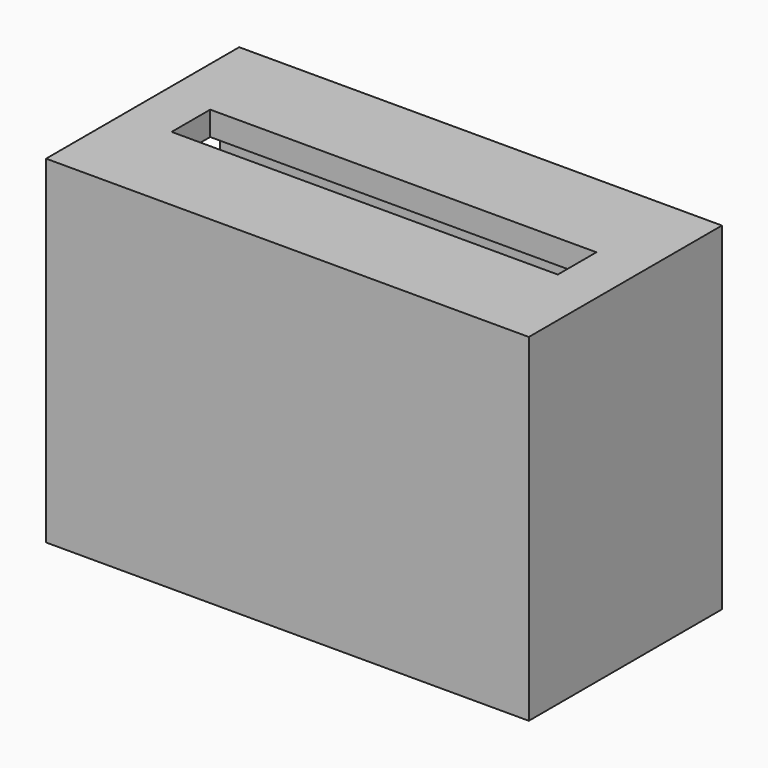
from build123d import *

# Parameters (mm, degrees)
F0_W     = 100
F0_H     = 50
F1_DEPTH = 35
F2_W     = 40
F2_H     = 60
F3_DEPTH = 95
F4_W     = 80
F4_H     = 10
F5_DEPTH = 5


with BuildPart() as f1:
    # F0 (on Top) → F1 (new body, symmetric)
    with BuildSketch(Plane.XY):
        with Locations((-50, 25)):
            Rectangle(F0_W, F0_H)
    extrude(amount=F1_DEPTH, both=True)

    # F2 (on face) → F3 (cut)
    with BuildSketch(Plane(origin=(-100, 0, 0), x_dir=(0, -1, 0), z_dir=(-1, 0, 0))):
        with Locations((-25, 0)):
            Rectangle(F2_W, F2_H)
    extrude(amount=-F3_DEPTH, mode=Mode.SUBTRACT)

    # F4 (on face) → F5 (cut, through all)
    with BuildSketch(Plane.XY.offset(35)):
        with Locations((-50, 25)):
            Rectangle(F4_W, F4_H)
    extrude(amount=-F5_DEPTH, mode=Mode.SUBTRACT)


solid = f1.part
